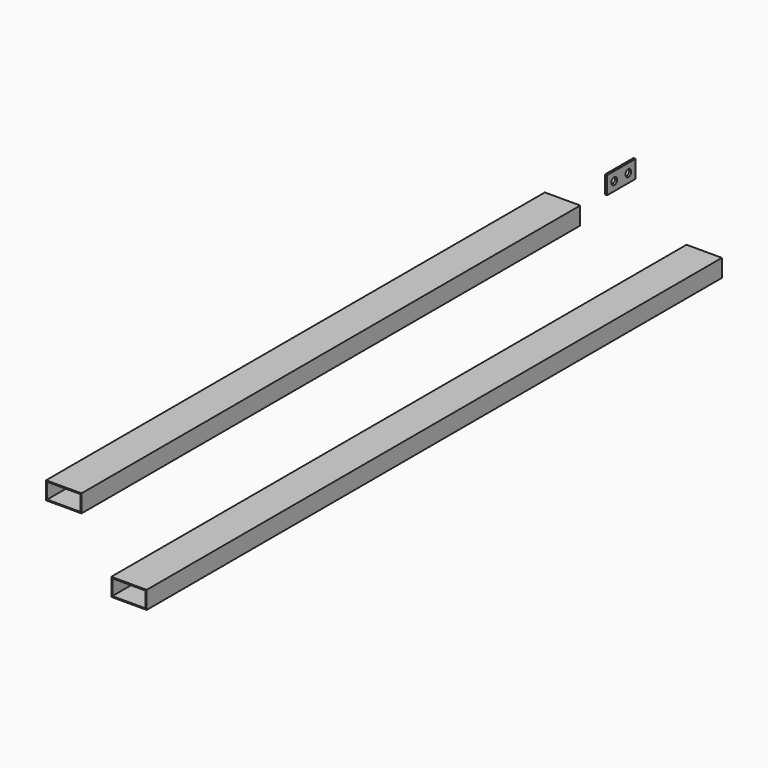
from build123d import *

# Parameters (mm, degrees)
F0_W     = 50
F0_H     = 25
F0_W_2   = 47
F0_H_2   = 22
F1_DEPTH = 880
F2_W     = 50
F2_H     = 25
F3_DEPTH = 3
F4_D     = 10
F5_W     = 50
F5_H     = 25
F5_W_2   = 47
F5_H_2   = 22
F6_DEPTH = 1015


with BuildPart() as f1:
    # F0 (on Front) → F1 (new body)
    with BuildSketch(Plane.XZ):
        Rectangle(F0_W, F0_H)
        Rectangle(F0_W_2, F0_H_2, mode=Mode.SUBTRACT)
    extrude(amount=F1_DEPTH)


with BuildPart() as f3:
    # F2 (on Right) → F3 (new body)
    with BuildSketch(Plane.YZ):
        with Locations((100, 0)):
            Rectangle(F2_W, F2_H)
    extrude(amount=F3_DEPTH)

    # F4 (through all)
    with Locations(Plane(origin=(0, 0, 0), x_dir=(0, 1, 0), z_dir=(-1, 0, 0))):
        with Locations((87.5, 0), (112.5, 0)):
            Hole(F4_D / 2)


with BuildPart() as f6:
    # F5 (on Front) → F6 (new body)
    with BuildSketch(Plane.XZ):
        with Locations((200, 0)):
            Rectangle(F5_W, F5_H)
        with Locations((200, 0)):
            Rectangle(F5_W_2, F5_H_2, mode=Mode.SUBTRACT)
    extrude(amount=F6_DEPTH)


solid = Compound([f1.part, f3.part, f6.part])
